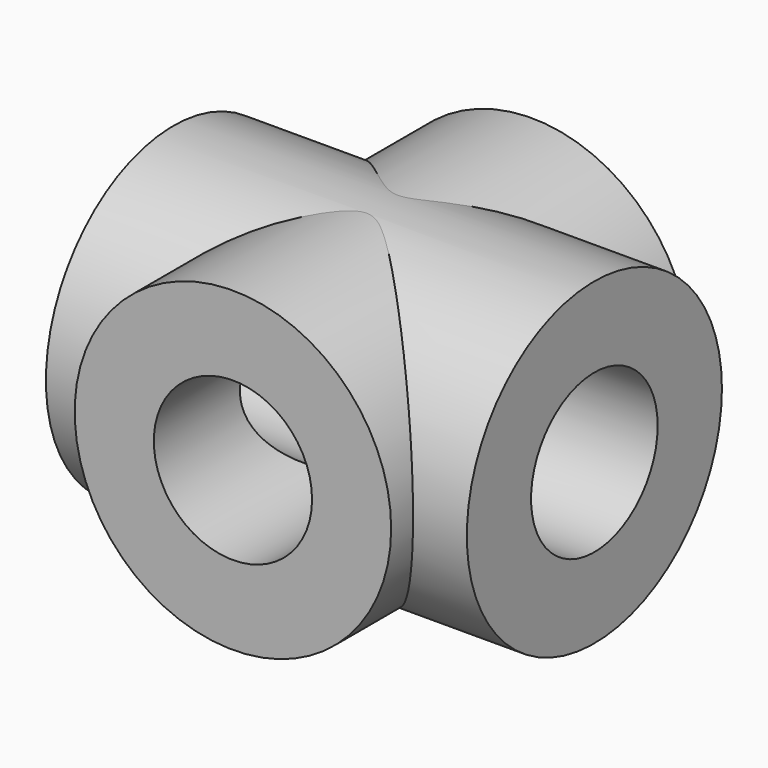
from build123d import *

# Parameters (mm, degrees)
F0_R          = 12.7
F1_DEPTH      = 29.972
F2_R          = 12.7953908212
F3_DEPTH      = 16.764
F3_DEPTH_BACK = 17.018
F5_D          = 12.7
F7_D          = 12.7


with BuildPart() as f1:
    # F0 (on Front) → F1 (new body)
    with BuildSketch(Plane.XZ):
        Circle(F0_R)
    extrude(amount=F1_DEPTH)

    # F2 (on Right) → F3 (join, two sides)
    with BuildSketch(Plane.YZ) as f3_sk:
        with Locations((-14.9844205007, 0)):
            Circle(F2_R)
    extrude(amount=-F3_DEPTH)
    extrude(f3_sk.sketch, amount=F3_DEPTH_BACK)

    # F5 (through all)
    with Locations(Plane(origin=(0, 0, 0), x_dir=(-1, 0, 0), z_dir=(0, 1, 0))):
        with Locations((0, 0)):
            Hole(F5_D / 2)

    # F7 (through all)
    with Locations(Plane(origin=(-16.764, 0, 0), x_dir=(0, -1, 0), z_dir=(-1, 0, 0))):
        with Locations((14.9844205007, 0)):
            Hole(F7_D / 2)


solid = f1.part
